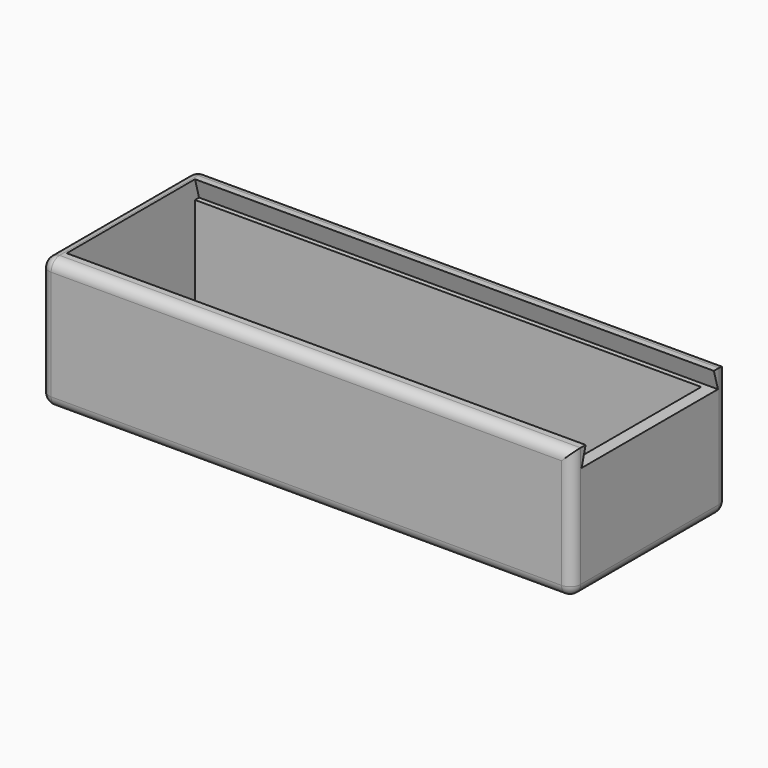
from build123d import *

# Parameters (mm, degrees)
F0_W     = 126
F0_H     = 46
F0_W_2   = 120
F0_H_2   = 38
F1_DEPTH = 3
F2_DEPTH = 28
F4_DEPTH = 123
F5_R     = 2.5


with BuildPart() as f1:
    # F0 (on Top) → F1 (new body)
    with BuildSketch(Plane.XY):
        with Locations((0.13021, -9.781944)):
            Rectangle(F0_W, F0_H)
        with Locations((0.13021, -9.781944)):
            Rectangle(F0_W_2, F0_H_2, mode=Mode.SUBTRACT)
        with Locations((0.13021, -9.781944)):
            Rectangle(F0_W_2, F0_H_2)
    extrude(amount=-F1_DEPTH)

    # F0 (on Top) → F2 (join)
    with BuildSketch(Plane.XY):
        with Locations((0.13021, -9.781944)):
            Rectangle(F0_W, F0_H)
        with Locations((0.13021, -9.781944)):
            Rectangle(F0_W_2, F0_H_2, mode=Mode.SUBTRACT)
    extrude(amount=F2_DEPTH)

    # F3 (on face) → F4 (cut)
    with BuildSketch(Plane.YZ.offset(63.13021)):
        Polygon((9.218056, 28), (-28.781944, 28), (-29.981944, 23.676099), (-28.781944, 23.676099), (9.218056, 23.676099), (10.418056, 23.676099), align=None)
    extrude(amount=-F4_DEPTH, mode=Mode.SUBTRACT)

    # F5
    f5_edges = [f1.edges().sort_by_distance(p)[0] for p in [
        (63.13021, -32.781944, 12.5),
        (63.13021, 13.218056, 12.5),
        (-62.86979, -32.781944, 12.5),
        (-62.86979, 13.218056, 12.5),
        (0.13021, 13.218056, -3),
        (63.13021, -9.781944, -3),
        (0.13021, -32.781944, -3),
        (-62.86979, -9.781944, -3),
        (0.13021, -32.781944, 28),
        (-62.86979, -9.781944, 28),
        (0.13021, 13.218056, 28),
    ]]
    fillet(f5_edges, radius=F5_R)


solid = f1.part
